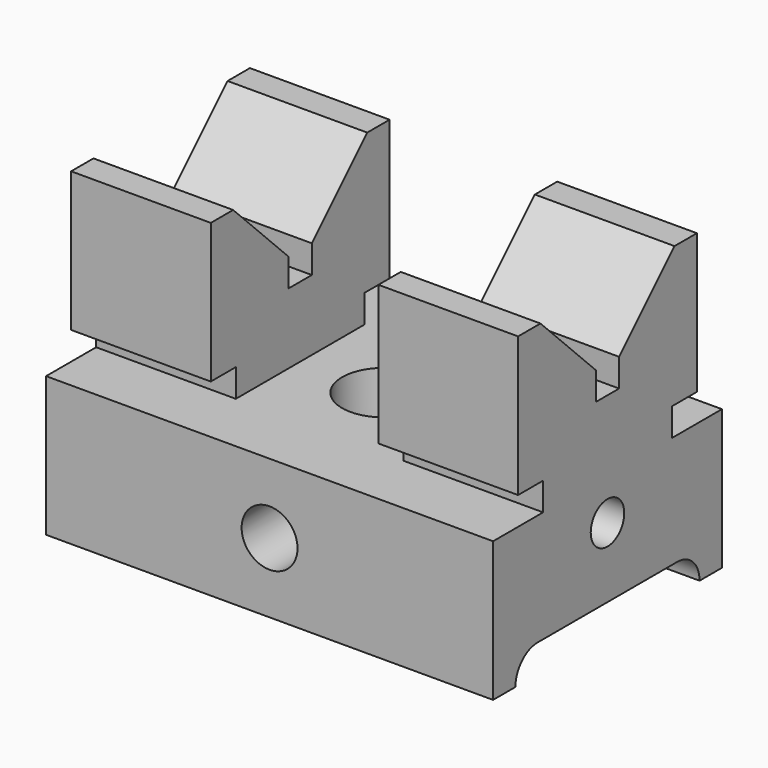
from build123d import *

# Parameters (mm, degrees)
F1_DEPTH       = 101.6
F3_D           = 9.525
F3_DEPTH       = 15.875
F3_CBORE_D     = 9.525
F3_CBORE_DEPTH = 9.525
F3_TIP         = 2.8615986981
F5_D           = 9.525
F5_CBORE_D     = 12.7
F5_CBORE_DEPTH = 12.7
F6_W           = 38.1
F6_H           = 38.1
F7_DEPTH       = 57.913
F8_R           = 9.525
F9_DEPTH       = 31.751


with BuildPart() as f1:
    # F0 (on Right) → F1 (new body)
    with BuildSketch(Plane.YZ):
        with BuildLine():
            Line((-18.288, 0), (-32.512, 0))
            Line((-32.512, 0), (-32.512, -31.75))
            Line((-32.512, -31.75), (-26.162, -31.75))
            ThreePointArc((-26.162, -31.75), (-24.3021280605, -27.2598719395), (-19.812, -25.4))
            Line((-19.812, -25.4), (19.812, -25.4))
            ThreePointArc((19.812, -25.4), (24.3021280605, -27.2598719395), (26.162, -31.75))
            Line((26.162, -31.75), (32.512, -31.75))
            Line((32.512, -31.75), (32.512, 0))
            Line((32.512, 0), (18.288, 0))
            Line((18.288, 0), (18.288, 6.35))
            Line((18.288, 6.35), (25.4, 6.35))
            Line((25.4, 6.35), (25.4, 38.1))
            Line((25.4, 38.1), (19.05, 38.1))
            Line((19.05, 38.1), (3.302, 22.352))
            Line((3.302, 22.352), (3.302, 16.002))
            Line((3.302, 16.002), (-3.302, 16.002))
            Line((-3.302, 16.002), (-3.302, 22.352))
            Line((-3.302, 22.352), (-19.05, 38.1))
            Line((-19.05, 38.1), (-25.4, 38.1))
            Line((-25.4, 38.1), (-25.4, 6.35))
            Line((-25.4, 6.35), (-18.288, 6.35))
            Line((-18.288, 6.35), (-18.288, 0))
        make_face()
    extrude(amount=-F1_DEPTH)

    # F3
    with Locations(Plane.YZ):
        with Locations((0, -9.525)):
            CounterBoreHole(F3_D / 2, F3_CBORE_D / 2, F3_CBORE_DEPTH, depth=F3_DEPTH)
            with Locations((0, 0, -(F3_DEPTH + F3_TIP / 2))):  # 118° drill point
                Cone(0, F3_D / 2, F3_TIP, mode=Mode.SUBTRACT)

    # F5 (through all)
    with Locations(Plane.XZ.offset(32.512)):
        with Locations((-50.8, -15.875)):
            CounterBoreHole(F5_D / 2, F5_CBORE_D / 2, F5_CBORE_DEPTH)

    # F6 (on face) → F7 (cut, through all)
    with BuildSketch(Plane.XZ.offset(25.4)):
        with Locations((-50.8, 19.05)):
            Rectangle(F6_W, F6_H)
    extrude(amount=-F7_DEPTH, mode=Mode.SUBTRACT)

    # F8 (on face) → F9 (cut, through all)
    with BuildSketch(Plane.XY):
        with Locations((-50.8, 0)):
            Circle(F8_R)
    extrude(amount=-F9_DEPTH, mode=Mode.SUBTRACT)


solid = f1.part
